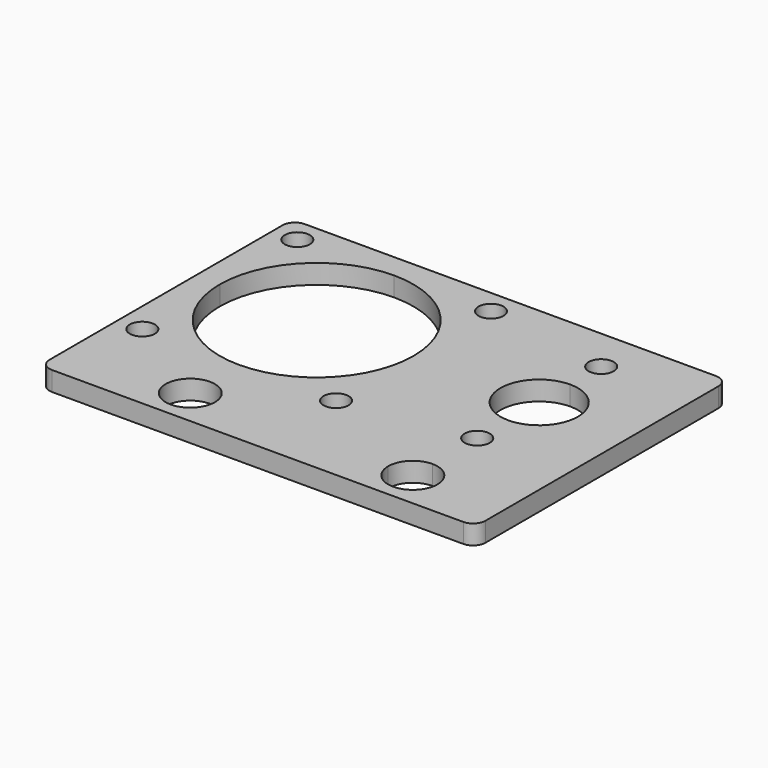
from build123d import *

# Parameters (mm, degrees)
F1_DEPTH = 2
F2_R     = 1.27
F3_D     = 2.5908
F3_DEPTH = 3.81
F3_TIP   = 0.7783548459


with BuildPart() as f1:
    # F0 (on Top) → F1 (new body)
    with BuildSketch(Plane.XY):
        with BuildLine():
            Line((22.5, -20.12), (22.5, -12.5))
            Line((22.5, -12.5), (12.975, -12.5))
            Line((12.975, -12.5), (12.975, -13.77))
            ThreePointArc((12.975, -13.77), (14.7710512242, -14.5139487758), (15.515, -16.31))
            ThreePointArc((15.515, -16.31), (14.7710512242, -18.1060512242), (12.975, -18.85))
            Line((12.975, -18.85), (12.975, -20.12))
            Line((12.975, -20.12), (22.5, -20.12))
        make_face()
        with BuildLine():
            Line((12.975, -12.5), (22.5, -12.5))
            Line((22.5, -12.5), (22.5, 0))
            Line((22.5, 0), (20.975, 0))
            ThreePointArc((20.975, 0), (18.6318542495, -5.6568542495), (12.975, -8))
            Line((12.975, -8), (12.975, -12.5))
        make_face()
        with BuildLine():
            Line((12.975, -13.77), (12.975, -12.5))
            Line((12.975, -12.5), (-22.5, -12.5))
            Line((-22.5, -12.5), (-22.5, -16.31))
            Line((-22.5, -16.31), (-12.54, -16.31))
            ThreePointArc((-12.54, -16.31), (-10, -13.77), (-7.46, -16.31))
            Line((-7.46, -16.31), (10.435, -16.31))
            ThreePointArc((10.435, -16.31), (11.1789487758, -14.5139487758), (12.975, -13.77))
        make_face()
        with BuildLine():
            Line((-22.5, -12.5), (12.975, -12.5))
            Line((12.975, -12.5), (12.975, -8))
            ThreePointArc((12.975, -8), (4.975, 0), (12.975, 8))
            ThreePointArc((12.975, 8), (18.6318542495, 5.6568542495), (20.975, 0))
            Line((20.975, 0), (22.5, 0))
            Line((22.5, 0), (22.5, 12.5))
            Line((22.5, 12.5), (-22.5, 12.5))
            Line((-22.5, 12.5), (-22.5, 0))
            Line((-22.5, 0), (-22.5, -12.5))
        make_face()
        Polygon((-20, -10), (-20, 0), (-20, 10), (-10, 10), (0, 10), (0, 0), (0, -10), (-10, -10), align=None, mode=Mode.SUBTRACT)
        with BuildLine():
            Line((-22.5, -20.12), (12.975, -20.12))
            Line((12.975, -20.12), (12.975, -18.85))
            ThreePointArc((12.975, -18.85), (11.1789487758, -18.1060512242), (10.435, -16.31))
            Line((10.435, -16.31), (-7.46, -16.31))
            ThreePointArc((-7.46, -16.31), (-10, -18.85), (-12.54, -16.31))
            Line((-12.54, -16.31), (-22.5, -16.31))
            Line((-22.5, -16.31), (-22.5, -20.12))
        make_face()
        with BuildLine():
            ThreePointArc((12.975, 8), (4.975, 0), (12.975, -8))
            Line((12.975, -8), (12.975, -4))
            ThreePointArc((12.975, -4), (8.975, 0), (12.975, 4))
            Line((12.975, 4), (12.975, 8))
        make_face()
        with BuildLine():
            Line((16.975, 0), (20.975, 0))
            ThreePointArc((20.975, 0), (18.6318542495, 5.6568542495), (12.975, 8))
            Line((12.975, 8), (12.975, 4))
            ThreePointArc((12.975, 4), (15.8034271247, 2.8284271247), (16.975, 0))
        make_face()
        with BuildLine():
            Line((12.975, -4), (12.975, -8))
            ThreePointArc((12.975, -8), (18.6318542495, -5.6568542495), (20.975, 0))
            Line((20.975, 0), (16.975, 0))
            ThreePointArc((16.975, 0), (15.8034271247, -2.8284271247), (12.975, -4))
        make_face()
        with BuildLine():
            ThreePointArc((0, 0), (-2.9289321881, -7.0710678119), (-10, -10))
            Line((-10, -10), (0, -10))
            Line((0, -10), (0, 0))
        make_face()
        with BuildLine():
            ThreePointArc((-10, -10), (-17.0710678119, -7.0710678119), (-20, 0))
            Line((-20, 0), (-20, -10))
            Line((-20, -10), (-10, -10))
        make_face()
        with BuildLine():
            Line((-20, 10), (-20, 0))
            ThreePointArc((-20, 0), (-17.0710678119, 7.0710678119), (-10, 10))
            Line((-10, 10), (-20, 10))
        make_face()
        with BuildLine():
            Line((0, 10), (-10, 10))
            ThreePointArc((-10, 10), (-2.9289321881, 7.0710678119), (0, 0))
            Line((0, 0), (0, 10))
        make_face()
    extrude(amount=F1_DEPTH)

    # F2
    f2_edges = [f1.edges().sort_by_distance(p)[0] for p in [
        (-22.5, 12.5, 1),
        (22.5, 12.5, 1),
        (-22.5, -20.12, 1),
        (22.5, -20.12, 1),
    ]]
    fillet(f2_edges, radius=F2_R)

    # F3
    with Locations(Plane(origin=(0, 0, 0), x_dir=(1, 0, 0), z_dir=(0, 0, -1))):
        with Locations((-20, -10), (0, -10), (0, 10), (-20, 10), (12.975, -8), (12.975, 8)):
            Hole(F3_D / 2, depth=F3_DEPTH)
            with Locations((0, 0, -(F3_DEPTH + F3_TIP / 2))):  # 118° drill point
                Cone(0, F3_D / 2, F3_TIP, mode=Mode.SUBTRACT)


solid = f1.part
